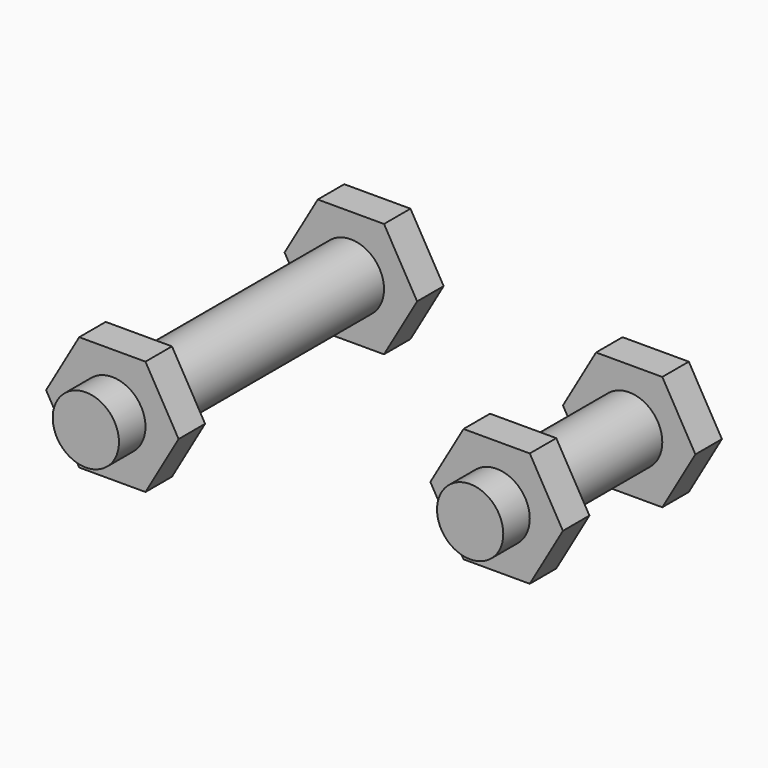
from build123d import *

# Parameters (mm, degrees)
F0_R          = 5
F1_DEPTH      = 30
F1_DEPTH_BACK = 25
F2_DEPTH      = 25
F3_DEPTH      = 20
F4_DEPTH      = 20
F4_DEPTH_BACK = 15
F5_DEPTH      = 15
F6_DEPTH      = 10


with BuildPart() as f1:
    # F0 (on Front) → F1 (new body, two sides)
    with BuildSketch(Plane.XZ) as f1_sk:
        Circle(F0_R)
    extrude(amount=F1_DEPTH)
    extrude(f1_sk.sketch, amount=-F1_DEPTH_BACK)

    # F0 (on Front) → F2 (join, symmetric)
    with BuildSketch(Plane.XZ):
        Polygon((5, 8.660254), (-5, 8.660254), (-10, 0), (-5, -8.660254), (5, -8.660254), (10, 0), align=None)
        Circle(F0_R, mode=Mode.SUBTRACT)
    extrude(amount=F2_DEPTH, both=True)

    # F0 (on Front) → F3 (cut, symmetric)
    with BuildSketch(Plane.XZ):
        Polygon((5, 8.660254), (-5, 8.660254), (-10, 0), (-5, -8.660254), (5, -8.660254), (10, 0), align=None)
        Circle(F0_R, mode=Mode.SUBTRACT)
    extrude(amount=F3_DEPTH, both=True, mode=Mode.SUBTRACT)


with BuildPart() as f4:
    # F0 (on Front) → F4 (new body, two sides)
    with BuildSketch(Plane.XZ) as f4_sk:
        with Locations((50, 0)):
            Circle(F0_R)
    extrude(amount=F4_DEPTH)
    extrude(f4_sk.sketch, amount=-F4_DEPTH_BACK)

    # F0 (on Front) → F5 (join, symmetric)
    with BuildSketch(Plane.XZ):
        Polygon((55, 8.660254), (45, 8.660254), (40, 0), (45, -8.660254), (55, -8.660254), (60, 0), align=None)
        with Locations((50, 0)):
            Circle(F0_R, mode=Mode.SUBTRACT)
    extrude(amount=F5_DEPTH, both=True)

    # F0 (on Front) → F6 (cut, symmetric)
    with BuildSketch(Plane.XZ):
        Polygon((55, 8.660254), (45, 8.660254), (40, 0), (45, -8.660254), (55, -8.660254), (60, 0), align=None)
        with Locations((50, 0)):
            Circle(F0_R, mode=Mode.SUBTRACT)
    extrude(amount=F6_DEPTH, both=True, mode=Mode.SUBTRACT)


solid = Compound([f1.part, f4.part])
